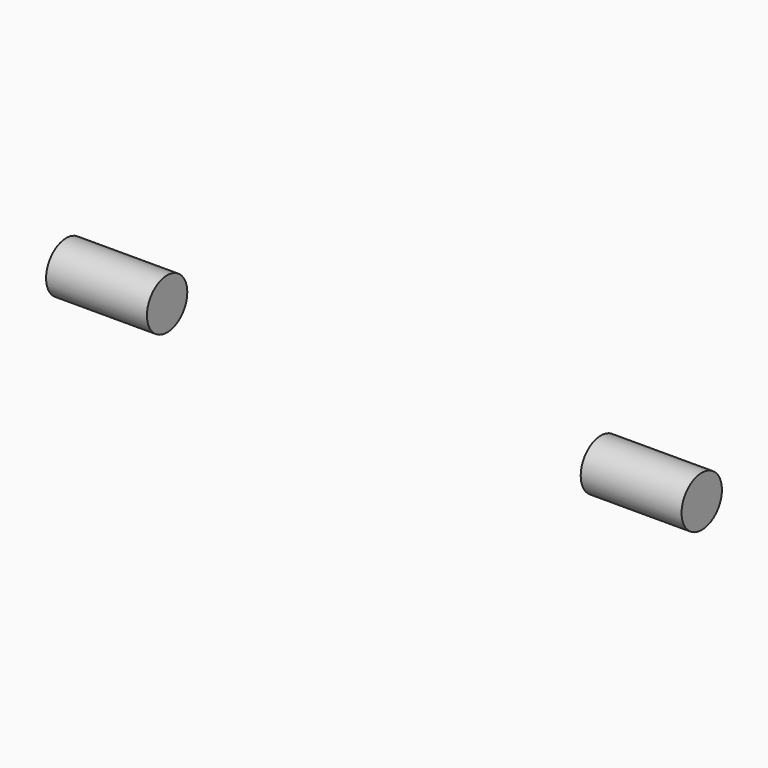
from build123d import *

# Parameters (mm, degrees)
CYLINDER004_R     = 5
CYLINDER004_DEPTH = 20


with BuildPart() as agujero_cables:
    # Cylinder004 → Cylinder004 (new body)
    with BuildSketch(Plane(origin=(43, 0, 38), x_dir=(0, 0, -1), z_dir=(1, 0, 0))):
        Circle(CYLINDER004_R)
    extrude(amount=CYLINDER004_DEPTH)


with BuildPart() as part_mirroring007:
    # Part__Mirroring007: instance of agujero-cables
    add(agujero_cables.part.mirror(Plane(origin=(0, 0, 0), x_dir=(0, -1, 0), z_dir=(1, 0, 0))))


with BuildPart() as agujeros_cables:
    # Fusion001030 base: copy of agujero-cables
    add(agujero_cables.part)

    # Fusion001030: union Part__Mirroring007
    add(part_mirroring007.part)


solid = agujeros_cables.part
